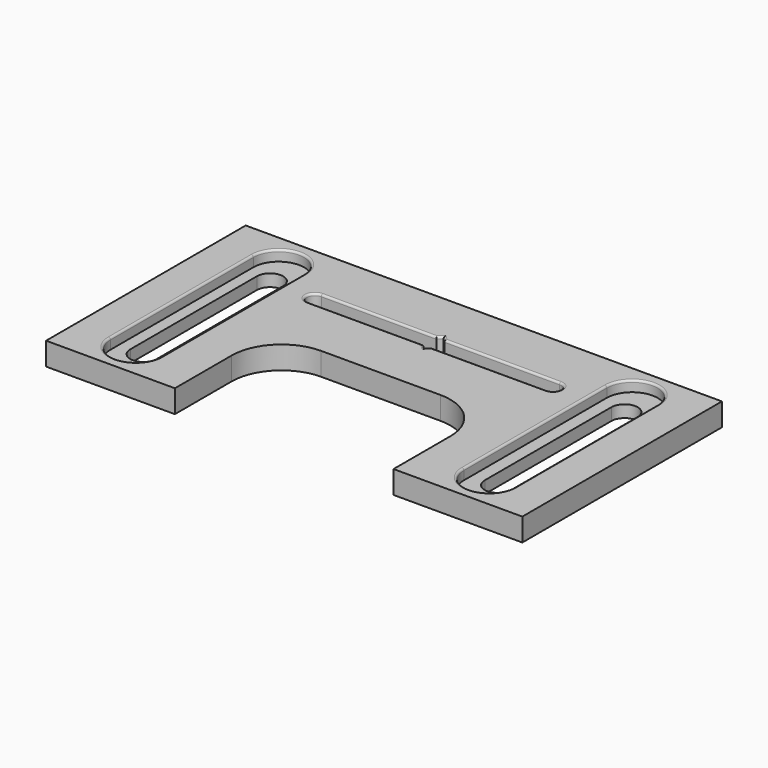
from build123d import *

# Parameters (mm, degrees)
PAD_DEPTH    = 11.25
POCKET_DEPTH = 5.25
FILLET_R     = 1


with BuildPart() as part:
    # Sketch → Pad (new body)
    with BuildSketch(Plane.XY):
        with BuildLine():
            Line((117.4, 123.025), (117.4, 0))
            Line((117.4, 0), (53.9, 0))
            Line((53.9, 0), (53.9, 35))
            ThreePointArc((53.9, 35), (46.716794, 52.341794), (29.375, 59.525))
            Line((29.375, 59.525), (-29.375, 59.525))
            ThreePointArc((-29.375, 59.525), (-46.716794, 52.341794), (-53.9, 35))
            Line((-53.9, 35), (-53.9, 0))
            Line((-53.9, 0), (-117.4, 0))
            Line((-117.4, 0), (-117.4, 123.025))
            Line((-117.4, 123.025), (117.4, 123.025))
        make_face()
        with BuildLine():
            ThreePointArc((-80.8875, 100.525), (-87.3875, 107.025), (-93.8875, 100.525))
            Line((-93.8875, 100.525), (-93.8875, 22.5))
            ThreePointArc((-93.8875, 22.5), (-87.3875, 16), (-80.8875, 22.5))
            Line((-80.8875, 22.5), (-80.8875, 100.525))
        make_face(mode=Mode.SUBTRACT)
        with BuildLine():
            ThreePointArc((93.8875, 100.525), (87.3875, 107.025), (80.8875, 100.525))
            Line((80.8875, 100.525), (80.8875, 22.5))
            ThreePointArc((80.8875, 22.5), (87.3875, 16), (93.8875, 22.5))
            Line((93.8875, 22.5), (93.8875, 100.525))
        make_face(mode=Mode.SUBTRACT)
        with BuildLine():
            ThreePointArc((-58.7, 96.26875), (-62.7, 92.26875), (-58.7, 88.26875))
            Line((-58.7, 88.26875), (-2, 88.26875))
            Line((-2, 88.26875), (0, 86.26875))
            Line((0, 86.26875), (2, 88.26875))
            Line((2, 88.26875), (58.7, 88.26875))
            ThreePointArc((58.7, 88.26875), (62.7, 92.26875), (58.7, 96.26875))
            Line((58.7, 96.26875), (2, 96.26875))
            Line((0, 98.26875), (2, 96.26875))
            Line((-2, 96.26875), (0, 98.26875))
            Line((-2, 96.26875), (-58.7, 96.26875))
        make_face(mode=Mode.SUBTRACT)
    extrude(amount=PAD_DEPTH)

    # Sketch001 (on Face30 of Pad) → Pocket (cut)
    with BuildSketch(Plane.XY.offset(11.25)):
        with BuildLine():
            ThreePointArc((-74.6375, 105.525), (-87.1375, 118.025), (-99.6375, 105.525))
            Line((-99.6375, 105.525), (-99.6375, 17.5))
            ThreePointArc((-99.6375, 17.5), (-87.1375, 5), (-74.6375, 17.5))
            Line((-74.6375, 17.5), (-74.6375, 105.525))
        make_face()
        with BuildLine():
            ThreePointArc((99.6375, 105.525), (87.1375, 118.025), (74.6375, 105.525))
            Line((74.6375, 105.525), (74.6375, 17.5))
            ThreePointArc((74.6375, 17.5), (87.1375, 5), (99.6375, 17.5))
            Line((99.6375, 17.5), (99.6375, 105.525))
        make_face()
    extrude(amount=-POCKET_DEPTH, mode=Mode.SUBTRACT)

    # Fillet
    fillet_edges = [part.edges().sort_by_distance(p)[0] for p in [
        (30.35, 96.26875, 11.25),
        (62.7, 92.26875, 11.25),
        (30.35, 88.26875, 11.25),
        (1, 87.26875, 11.25),
        (-1, 87.26875, 11.25),
        (1, 97.26875, 11.25),
        (-1, 97.26875, 11.25),
        (-30.35, 96.26875, 11.25),
        (-30.35, 88.26875, 11.25),
        (-62.7, 92.26875, 11.25),
        (-74.6375, 61.5125, 11.25),
        (-87.1375, 118.025, 11.25),
        (-99.6375, 61.5125, 11.25),
        (87.1375, 118.025, 11.25),
        (74.6375, 61.5125, 11.25),
        (99.6375, 61.5125, 11.25),
        (87.1375, 5, 11.25),
        (-87.1375, 5, 11.25),
    ]]
    fillet(fillet_edges, radius=FILLET_R)


solid = part.part
